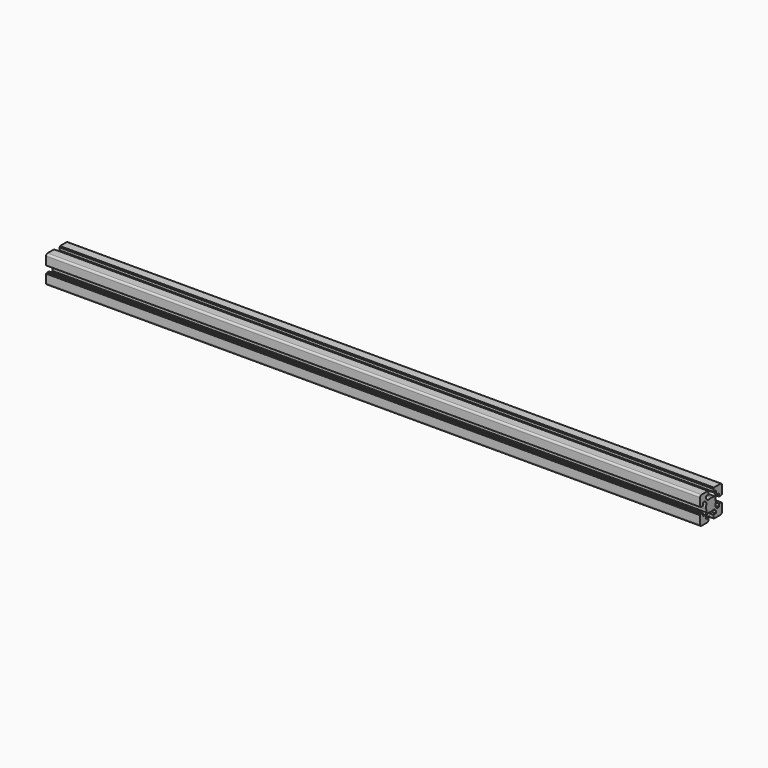
from build123d import *

# Parameters (mm, degrees)
F1_DEPTH = 1073.15


with BuildPart() as f1:
    # F0 (on Right) → F1 (new body)
    with BuildSketch(Plane.YZ):
        with BuildLine():
            Line((-20.088481, -9.788837), (-20.088481, -10.288837))
            Line((-20.088481, -10.288837), (-21.28859, -10.288837))
            ThreePointArc((-21.28859, -10.288837), (-21.500722, -10.376705), (-21.58859, -10.588837))
            Line((-21.58859, -10.588837), (-21.58859, -23.988949))
            ThreePointArc((-21.58859, -23.988949), (-20.70991, -26.11027), (-18.58859, -26.988949))
            Line((-18.58859, -26.988949), (-5.188544, -26.988949))
            ThreePointArc((-5.188544, -26.988949), (-4.976411, -26.901081), (-4.888544, -26.688949))
            Line((-4.888544, -26.688949), (-4.888544, -25.488841))
            Line((-4.888544, -25.488841), (-4.388544, -25.488841))
            ThreePointArc((-4.388544, -25.488841), (-4.176411, -25.400973), (-4.088544, -25.188841))
            Line((-4.088544, -25.188841), (-4.088544, -21.288841))
            ThreePointArc((-4.088544, -21.288841), (-4.176411, -21.076709), (-4.388544, -20.988841))
            Line((-4.388544, -20.988841), (-9.138663, -20.988841))
            Line((-9.138663, -20.988841), (-9.138663, -16.881665))
            Line((-9.138663, -16.881665), (-6.245729, -13.988731))
            Line((-6.245729, -13.988731), (-2.211433, -13.988731))
            ThreePointArc((-2.211433, -13.988731), (-0.669869, -14.363044), (0.91149, -14.48887))
            Line((0.91149, -14.48887), (0.91149, -4.48887))
            Line((0.91149, -4.48887), (-9.08851, -4.48887))
            ThreePointArc((-9.08851, -4.48887), (-8.962684, -6.070229), (-8.588371, -7.611793))
            Line((-8.588371, -7.611793), (-8.588371, -11.646022))
            Line((-8.588371, -11.646022), (-11.481305, -14.538956))
            Line((-11.481305, -14.538956), (-15.588481, -14.538956))
            Line((-15.588481, -14.538956), (-15.588481, -9.788837))
            ThreePointArc((-15.588481, -9.788837), (-15.676349, -9.576705), (-15.888481, -9.488837))
            Line((-15.888481, -9.488837), (-19.788481, -9.488837))
            ThreePointArc((-19.788481, -9.488837), (-20.000613, -9.576705), (-20.088481, -9.788837))
        make_face()
        with BuildLine():
            ThreePointArc((-8.588371, -1.365947), (-8.962684, -2.907511), (-9.08851, -4.48887))
            Line((-9.08851, -4.48887), (0.91149, -4.48887))
            Line((0.91149, -4.48887), (0.91149, 5.51113))
            ThreePointArc((0.91149, 5.51113), (-0.669869, 5.385303), (-2.211433, 5.010991))
            Line((-2.211433, 5.010991), (-6.245729, 5.010991))
            Line((-6.245729, 5.010991), (-9.138663, 7.903925))
            Line((-9.138663, 7.903925), (-9.138663, 12.011101))
            Line((-9.138663, 12.011101), (-4.388544, 12.011101))
            ThreePointArc((-4.388544, 12.011101), (-4.176411, 12.098969), (-4.088544, 12.311101))
            Line((-4.088544, 12.311101), (-4.088544, 16.211101))
            ThreePointArc((-4.088544, 16.211101), (-4.176411, 16.423233), (-4.388544, 16.511101))
            Line((-4.388544, 16.511101), (-4.888544, 16.511101))
            Line((-4.888544, 16.511101), (-4.888544, 17.711209))
            ThreePointArc((-4.888544, 17.711209), (-4.976411, 17.923341), (-5.188544, 18.011209))
            Line((-5.188544, 18.011209), (-18.58859, 18.011209))
            ThreePointArc((-18.58859, 18.011209), (-20.70991, 17.13253), (-21.58859, 15.011209))
            Line((-21.58859, 15.011209), (-21.58859, 1.611097))
            ThreePointArc((-21.58859, 1.611097), (-21.500722, 1.398965), (-21.28859, 1.311097))
            Line((-21.28859, 1.311097), (-20.088481, 1.311097))
            Line((-20.088481, 1.311097), (-20.088481, 0.811097))
            ThreePointArc((-20.088481, 0.811097), (-20.000613, 0.598965), (-19.788481, 0.511097))
            Line((-19.788481, 0.511097), (-15.888481, 0.511097))
            ThreePointArc((-15.888481, 0.511097), (-15.676349, 0.598965), (-15.588481, 0.811097))
            Line((-15.588481, 0.811097), (-15.588481, 5.561216))
            Line((-15.588481, 5.561216), (-11.481305, 5.561216))
            Line((-11.481305, 5.561216), (-8.588371, 2.668282))
            Line((-8.588371, 2.668282), (-8.588371, -1.365947))
        make_face()
        with BuildLine():
            Line((0.91149, 5.51113), (0.91149, -4.48887))
            Line((0.91149, -4.48887), (10.91149, -4.48887))
            ThreePointArc((10.91149, -4.48887), (10.785663, -2.907511), (10.41135, -1.365947))
            Line((10.41135, -1.365947), (10.41135, 2.668282))
            Line((10.41135, 2.668282), (13.304285, 5.561216))
            Line((13.304285, 5.561216), (14.016842, 5.561216))
            Line((14.016842, 5.561216), (17.41146, 5.561216))
            Line((17.41146, 5.561216), (17.41146, 0.811097))
            ThreePointArc((17.41146, 0.811097), (17.499328, 0.598965), (17.71146, 0.511097))
            Line((17.71146, 0.511097), (21.61146, 0.511097))
            ThreePointArc((21.61146, 0.511097), (21.823593, 0.598965), (21.91146, 0.811097))
            Line((21.91146, 0.811097), (21.91146, 1.311097))
            Line((21.91146, 1.311097), (23.111569, 1.311097))
            ThreePointArc((23.111569, 1.311097), (23.323701, 1.398965), (23.411569, 1.611097))
            Line((23.411569, 1.611097), (23.411569, 15.011209))
            ThreePointArc((23.411569, 15.011209), (22.532889, 17.13253), (20.411569, 18.011209))
            Line((20.411569, 18.011209), (7.011523, 18.011209))
            ThreePointArc((7.011523, 18.011209), (6.799391, 17.923341), (6.711523, 17.711209))
            Line((6.711523, 17.711209), (6.711523, 16.511101))
            Line((6.711523, 16.511101), (6.211523, 16.511101))
            ThreePointArc((6.211523, 16.511101), (5.999391, 16.423233), (5.911523, 16.211101))
            Line((5.911523, 16.211101), (5.911523, 12.311101))
            ThreePointArc((5.911523, 12.311101), (5.999391, 12.098969), (6.211523, 12.011101))
            Line((6.211523, 12.011101), (10.961642, 12.011101))
            Line((10.961642, 12.011101), (10.961642, 7.903925))
            Line((10.961642, 7.903925), (8.068708, 5.010991))
            Line((8.068708, 5.010991), (4.034413, 5.010991))
            ThreePointArc((4.034413, 5.010991), (2.492849, 5.385303), (0.91149, 5.51113))
        make_face()
        with BuildLine():
            Line((10.91149, -4.48887), (0.91149, -4.48887))
            Line((0.91149, -4.48887), (0.91149, -14.48887))
            ThreePointArc((0.91149, -14.48887), (2.492849, -14.363044), (4.034413, -13.988731))
            Line((4.034413, -13.988731), (8.068708, -13.988731))
            Line((8.068708, -13.988731), (10.961642, -16.881665))
            Line((10.961642, -16.881665), (10.961642, -20.988841))
            Line((10.961642, -20.988841), (6.211523, -20.988841))
            ThreePointArc((6.211523, -20.988841), (5.999391, -21.076709), (5.911523, -21.288841))
            Line((5.911523, -21.288841), (5.911523, -25.188841))
            ThreePointArc((5.911523, -25.188841), (5.999391, -25.400973), (6.211523, -25.488841))
            Line((6.211523, -25.488841), (6.711523, -25.488841))
            Line((6.711523, -25.488841), (6.711523, -26.688949))
            ThreePointArc((6.711523, -26.688949), (6.799391, -26.901081), (7.011523, -26.988949))
            Line((7.011523, -26.988949), (20.411569, -26.988949))
            ThreePointArc((20.411569, -26.988949), (22.532889, -26.11027), (23.411569, -23.988949))
            Line((23.411569, -23.988949), (23.411569, -10.588837))
            ThreePointArc((23.411569, -10.588837), (23.323701, -10.376705), (23.111569, -10.288837))
            Line((23.111569, -10.288837), (21.91146, -10.288837))
            Line((21.91146, -10.288837), (21.91146, -9.788837))
            ThreePointArc((21.91146, -9.788837), (21.823593, -9.576705), (21.61146, -9.488837))
            Line((21.61146, -9.488837), (17.71146, -9.488837))
            ThreePointArc((17.71146, -9.488837), (17.499328, -9.576705), (17.41146, -9.788837))
            Line((17.41146, -9.788837), (17.41146, -14.538956))
            Line((17.41146, -14.538956), (13.304285, -14.538956))
            Line((13.304285, -14.538956), (10.41135, -11.646022))
            Line((10.41135, -11.646022), (10.41135, -7.611793))
            ThreePointArc((10.41135, -7.611793), (10.785663, -6.070229), (10.91149, -4.48887))
        make_face()
    extrude(amount=F1_DEPTH)


solid = f1.part
